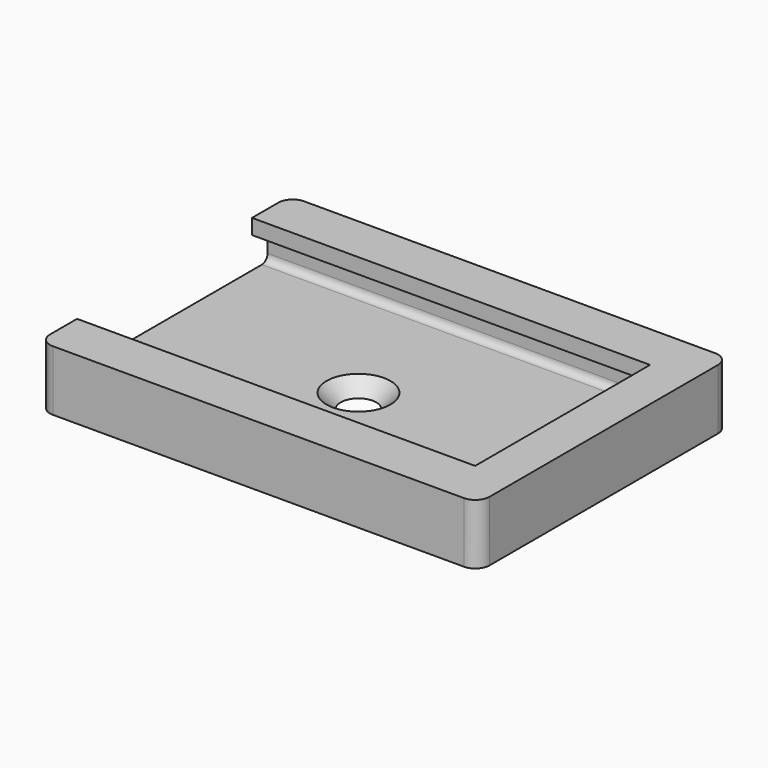
from build123d import *

# Parameters (mm, degrees)
F0_W     = 61.8317574263
F0_H     = 44.1648438573
F1_DEPTH = 8.5
F2_R     = 2
F4_DEPTH = 56
F5_R     = 2.5
F6_DEPTH = 25
F6_TAPER = -45


with BuildPart() as f1:
    # F0 (on Top) → F1 (new body)
    with BuildSketch(Plane.XY):
        with Locations((3.5895518959, 0)):
            Rectangle(F0_W, F0_H)
    extrude(amount=F1_DEPTH)

    # F2
    f2_edges = [f1.edges().sort_by_distance(p)[0] for p in [
        (-27.326327, -22.082422, 4.25),
        (34.505431, -22.082422, 4.25),
        (-27.326327, 22.082422, 4.25),
        (34.505431, 22.082422, 4.25),
    ]]
    fillet(f2_edges, radius=F2_R)

    # F3 (on face) → F4 (cut)
    with BuildSketch(Plane(origin=(-27.3263268173, 0, 0), x_dir=(0, -1, 0), z_dir=(-1, 0, 0))):
        with BuildLine():
            ThreePointArc((-18.1670283088, 3), (-17.87413509, 2.2928932188), (-17.1670283088, 2))
            Line((-17.1670283088, 2), (17.1670283088, 2))
            ThreePointArc((17.1670283088, 2), (17.87413509, 2.2928932188), (18.1670283088, 3))
            Line((18.1670283088, 3), (18.1670283088, 6.3671339807))
            Line((18.1670283088, 6.3671339807), (15.3303788975, 6.3671339807))
            Line((15.3303788975, 6.3671339807), (15.3303788975, 8.5))
            Line((15.3303788975, 8.5), (-15.4332136735, 8.5))
            Line((-15.4332136735, 8.5), (-15.4332136735, 6.3671339807))
            Line((-15.4332136735, 6.3671339807), (-18.1670283088, 6.3671339807))
            Line((-18.1670283088, 6.3671339807), (-18.1670283088, 3))
        make_face()
    extrude(amount=-F4_DEPTH, mode=Mode.SUBTRACT)

    # F5 (on Top) → F6 (cut)
    with BuildSketch(Plane.XY):
        Circle(F5_R)
    extrude(amount=F6_DEPTH, taper=F6_TAPER, mode=Mode.SUBTRACT)


solid = f1.part
